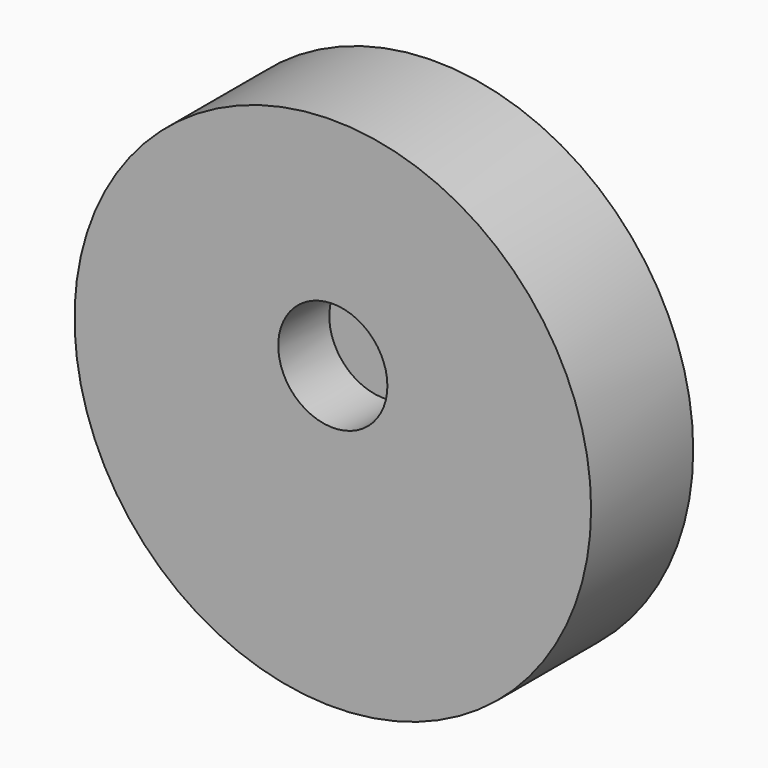
from build123d import *

# Parameters (mm, degrees)
F0_R     = 102.795714
F2_DEPTH = 25.4
F3_R     = 102.795714
F3_R_2   = 21.719393
F4_DEPTH = 25.4


with BuildPart() as f2:
    # F0 (on Front) → F2 (new body)
    with BuildSketch(Plane.XZ):
        with Locations((0, 39.552331)):
            Circle(F0_R)
    extrude(amount=F2_DEPTH)

    # F3 (on face) → F4 (join)
    with BuildSketch(Plane.XZ.offset(25.4)):
        with Locations((0, 39.552331)):
            Circle(F3_R)
        with Locations((0, 56.261435)):
            Circle(F3_R_2, mode=Mode.SUBTRACT)
    extrude(amount=F4_DEPTH)


solid = f2.part
